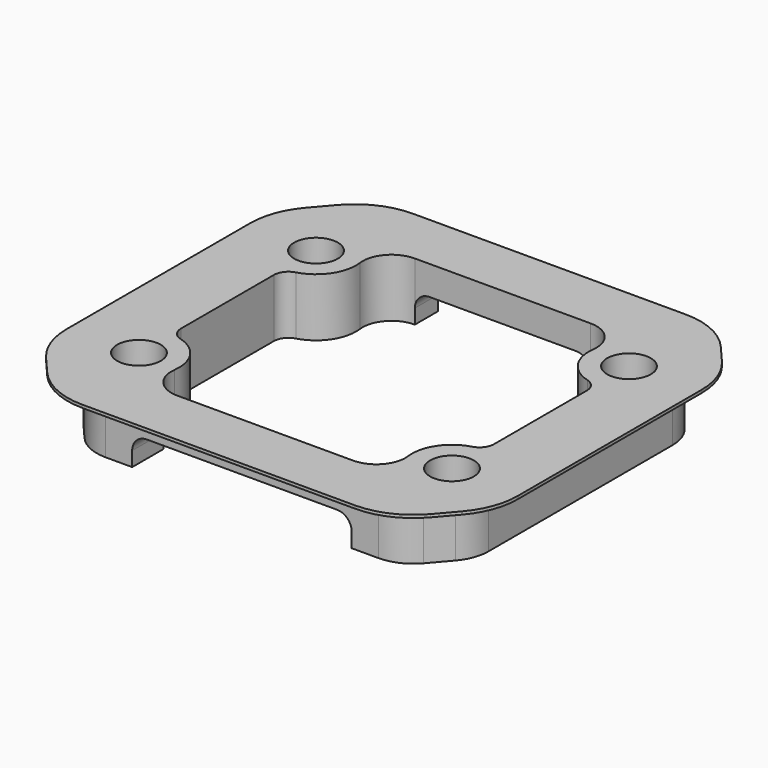
from build123d import *

# Parameters (mm, degrees)
F0_R     = 1.5
F1_DEPTH = 4
F2_R     = 2
F3_R     = 1
F4_R     = 3
F5_W     = 12.076094228
F5_H     = 2
F6_DEPTH = 2
F8_DEPTH = 0.2
F9_R     = 1


with BuildPart() as f1:
    # F0 (on Top) → F1 (new body)
    with BuildSketch(Plane.XY):
        Polygon((0, 19.8), (-2.75, 16.6034741081), (-2.75, -1.4034741081), (0, -4.6), (21.5, -4.6), (24.25, -1.4034741081), (24.25, 16.6034741081), (21.5, 19.8), align=None)
        Circle(F0_R, mode=Mode.SUBTRACT)
        with Locations((21.5, 0)):
            Circle(F0_R, mode=Mode.SUBTRACT)
        with Locations((0, 15.2)):
            Circle(F0_R, mode=Mode.SUBTRACT)
        with BuildLine():
            Line((20.6041763566, -2.6), (0.8958236434, -2.6))
            ThreePointArc((0.8958236434, -2.6), (2.712240771, 0.4541475531), (0, 2.75))
            Line((0, 2.75), (0, 12.45))
            ThreePointArc((0, 12.45), (2.712240771, 14.7458524469), (0.8958236434, 17.8))
            Line((0.8958236434, 17.8), (20.6041763566, 17.8))
            ThreePointArc((20.6041763566, 17.8), (18.787759229, 14.7458524469), (21.5, 12.45))
            Line((21.5, 12.45), (21.5, 2.75))
            ThreePointArc((21.5, 2.75), (18.787759229, 0.4541475531), (20.6041763566, -2.6))
        make_face(mode=Mode.SUBTRACT)
        with Locations((21.5, 15.2)):
            Circle(F0_R, mode=Mode.SUBTRACT)
    extrude(amount=F1_DEPTH)

    # F2
    f2_edges = [f1.edges().sort_by_distance(p)[0] for p in [
        (0.895824, 17.8, 2),
        (20.604176, 17.8, 2),
        (0.895824, -2.6, 2),
        (20.604176, -2.6, 2),
    ]]
    fillet(f2_edges, radius=F2_R)

    # F3
    f3_edges = [f1.edges().sort_by_distance(p)[0] for p in [
        (0, 12.45, 2),
        (0, 2.75, 2),
        (21.5, 12.45, 2),
        (21.5, 2.75, 2),
    ]]
    fillet(f3_edges, radius=F3_R)

    # F4
    f4_edges = [f1.edges().sort_by_distance(p)[0] for p in [
        (0, -4.6, 2),
        (21.5, -4.6, 2),
        (24.25, -1.403474, 2),
        (24.25, 16.603474, 2),
        (21.5, 19.8, 2),
        (0, 19.8, 2),
        (-2.75, 16.603474, 2),
        (-2.75, -1.403474, 2),
    ]]
    fillet(f4_edges, radius=F4_R)

    # F5 (on face) → F6 (cut)
    with BuildSketch(Plane(origin=(0, 0, 0), x_dir=(1, 0, 0), z_dir=(0, 0, -1))):
        with Locations((10.75, -18.8)):
            Rectangle(F5_W, F5_H)
        with BuildLine():
            Line((3.211952886, 4.6), (3.211952886, 1.9228756555))
            ThreePointArc((3.211952886, 1.9228756555), (3.8890772305, 2.4228756555), (4.711952886, 2.6))
            Line((4.711952886, 2.6), (16.788047114, 2.6))
            ThreePointArc((16.788047114, 2.6), (17.6109227695, 2.4228756555), (18.288047114, 1.9228756555))
            Line((18.288047114, 1.9228756555), (18.288047114, 4.6))
            Line((18.288047114, 4.6), (3.211952886, 4.6))
        make_face()
    extrude(amount=-F6_DEPTH, mode=Mode.SUBTRACT)

    # F7 (on face) → F8 (join)
    with BuildSketch(Plane.XY.offset(4)):
        with BuildLine():
            ThreePointArc((-3.5403469074, 18.7514628281), (-4.4378424961, 17.2295966359), (-4.75, 15.4905932629))
            Line((-4.75, 15.4905932629), (-4.75, -0.2905932629))
            ThreePointArc((-4.75, -0.2905932629), (-4.4378424961, -2.0295966359), (-3.5403469074, -3.5514628281))
            Line((-3.5403469074, -3.5514628281), (-2.4138525042, -4.8608695652))
            ThreePointArc((-2.4138525042, -4.8608695652), (-0.7086497373, -6.1444662957), (1.3764944032, -6.6))
            Line((1.3764944032, -6.6), (20.1235055968, -6.6))
            ThreePointArc((20.1235055968, -6.6), (22.2086497373, -6.1444662957), (23.9138525042, -4.8608695652))
            Line((23.9138525042, -4.8608695652), (25.0403469074, -3.5514628281))
            ThreePointArc((25.0403469074, -3.5514628281), (25.9378424961, -2.0295966359), (26.25, -0.2905932629))
            Line((26.25, -0.2905932629), (26.25, 15.4905932629))
            ThreePointArc((26.25, 15.4905932629), (25.9378424961, 17.2295966359), (25.0403469074, 18.7514628281))
            Line((25.0403469074, 18.7514628281), (23.9138525042, 20.0608695652))
            ThreePointArc((23.9138525042, 20.0608695652), (22.2086497373, 21.3444662957), (20.1235055968, 21.8))
            Line((20.1235055968, 21.8), (1.3764944032, 21.8))
            ThreePointArc((1.3764944032, 21.8), (-0.7086497373, 21.3444662957), (-2.4138525042, 20.0608695652))
            Line((-2.4138525042, 20.0608695652), (-3.5403469074, 18.7514628281))
        make_face()
        with BuildLine():
            Line((-2.75, -0.2905932629), (-2.75, 15.4905932629))
            ThreePointArc((-2.75, 15.4905932629), (-2.5627054977, 16.5339952867), (-2.0242081445, 17.447115002))
            Line((-2.0242081445, 17.447115002), (-0.8977137412, 18.7565217391))
            ThreePointArc((-0.8977137412, 18.7565217391), (0.1254079189, 19.5266797774), (1.3764944032, 19.8))
            Line((1.3764944032, 19.8), (20.1235055968, 19.8))
            ThreePointArc((20.1235055968, 19.8), (21.3745920811, 19.5266797774), (22.3977137412, 18.7565217391))
            Line((22.3977137412, 18.7565217391), (23.5242081445, 17.447115002))
            ThreePointArc((23.5242081445, 17.447115002), (24.0627054977, 16.5339952867), (24.25, 15.4905932629))
            Line((24.25, 15.4905932629), (24.25, -0.2905932629))
            ThreePointArc((24.25, -0.2905932629), (24.0627054977, -1.3339952867), (23.5242081445, -2.247115002))
            Line((23.5242081445, -2.247115002), (22.3977137412, -3.5565217391))
            ThreePointArc((22.3977137412, -3.5565217391), (21.3745920811, -4.3266797774), (20.1235055968, -4.6))
            Line((20.1235055968, -4.6), (1.3764944032, -4.6))
            ThreePointArc((1.3764944032, -4.6), (0.1254079189, -4.3266797774), (-0.8977137412, -3.5565217391))
            Line((-0.8977137412, -3.5565217391), (-2.0242081445, -2.247115002))
            ThreePointArc((-2.0242081445, -2.247115002), (-2.5627054977, -1.3339952867), (-2.75, -0.2905932629))
        make_face(mode=Mode.SUBTRACT)
    extrude(amount=-F8_DEPTH)

    # F9
    f9_edges = [f1.edges().sort_by_distance(p)[0] for p in [
        (3.211953, -3.261438, 2),
        (18.288047, -3.261438, 2),
        (16.788047, 18.8, 2),
        (4.711953, 18.8, 2),
    ]]
    fillet(f9_edges, radius=F9_R)


solid = f1.part
